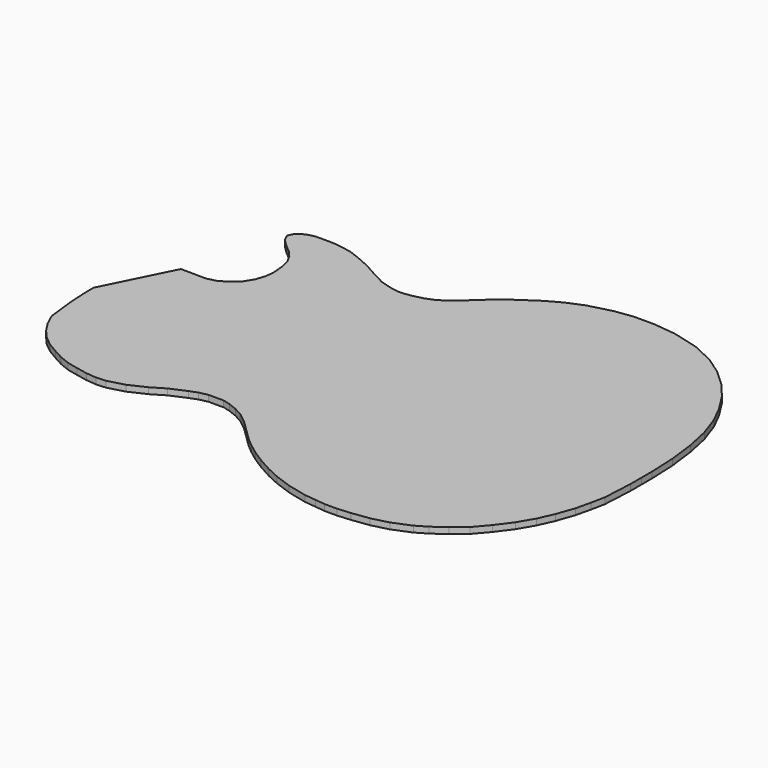
from build123d import *

# Parameters (mm, degrees)
F0_W     = 37
F0_H     = 69
F1_DEPTH = 5


with BuildPart() as f1:
    # F0 (on Top) → F1 (new body)
    with BuildSketch(Plane.XY):
        Polygon((109.757393, -47.013952), (-190.469548, -47.013952), (-187.938355, -69.176264), (-184.088363, -77.644812), (-178.970914, -85.570573), (-173.10958, -92.22553), (-166.061834, -97.942505), (-158.033386, -102.625757), (-150.505585, -106.763709), (-142.395731, -109.967075), (-134.17314, -111.816847), (-125.182951, -113.624161), (-117.335529, -114.393513), (-110.297666, -113.927758), (-97.994511, -110.570822), (-84.98137, -104.478377), (-74.645462, -98.277857), (-61.347514, -92.467954), (-54.509754, -89.918709), (-46.818863, -88.209901), (-39.777415, -88.209901), (-33.070793, -88.209901), (-25.985741, -90.074082), (-18.618021, -92.997303), (-10.935776, -97.133205), (-1.40856, -104.7078), (7.10493, -112.998784), (15.743346, -121.422512), (21.768701, -126.512042), (30.47871, -133.017234), (39.396258, -138.681565), (50.354269, -144.791737), (60.591184, -149.491585), (74.199441, -154.41068), (89.423326, -158.059629), (98.85233, -159.107134), (106.677154, -159.976425), (116.486558, -159.976425), (126.872966, -159.103989), (140.423232, -157.318581), (153.42437, -154.017258), (167.162878, -148.336862), (175.342116, -143.532352), (185.6123, -136.302521), (195.518968, -128.048335), (204.653845, -117.358152), (213.371967, -105.595887), (220.455531, -93.514166), (225.775129, -81.625274), (230.597933, -67.78821), (233.441157, -55.785481), (235.624263, -44.975688), (236.896344, -20.704121), (236.86714, -9.510057), (236.86714, 1.11357), (235.906968, 22.984027), (233.25353, 44.31771), (229.252552, 63.059144), (223.510394, 79.554792), (216.840677, 92.894226), (207.739533, 107.33053), (197.024369, 120.1263), (184.641449, 131.468644), (171.094149, 140.879356), (153.60487, 149.05483), (132.97725, 154.472187), (114.898965, 156.457659), (99.067456, 156.457659), (84.663291, 154.488749), (66.679821, 149.783781), (53.734493, 144.398522), (42.264603, 138.037948), (27.751352, 128.291809), (16.359527, 119.536983), (4.246612, 108.496011), (-5.338126, 100.151649), (-13.215689, 95.496727), (-20.495536, 92.632523), (-29.407222, 90.433524), (-36.891697, 89.410468), (-42.068154, 89.410468), (-50.267792, 90.919179), (-59.070143, 93.618111), (-68.10425, 98.191586), (-78.777898, 104.228198), (-85.258181, 107.363312), (-92.926764, 110.724328), (-100.445934, 113.46735), (-107.684615, 114.975152), (-115.831575, 115.993351), (-123.636163, 115.993351), (-129.309204, 115.993351), (-133.603284, 114.941916), (-137.040821, 113.433007), (-138.448742, 112.306855), (-139.140668, 111.03855), (-139.344401, 110.549672), (-138.28696, 108.284083), (-136.043459, 105.957887), (-131.906646, 102.131959), (-126.94568, 97.960933), (-121.69705, 91.98096), (-117.6631, 84.796643), (-115.553754, 76.732782), (-114.52125, 64.899556), (-115.629325, 56.405594), (-116.508421, 53.80871), (109.757393, 52.986048), align=None)
        Polygon((241.896685, -20.828539), (241.86714, -9.503535), (241.86714, 1.223274), (240.893394, 23.402912), (238.188565, 45.149782), (234.077219, 64.408205), (228.126581, 81.502758), (221.202205, 95.35151), (211.789387, 110.282193), (200.645468, 123.589971), (187.770458, 135.383053), (173.597124, 145.228644), (155.312446, 153.775932), (133.890159, 159.40199), (115.172707, 161.457659), (98.727311, 161.457659), (83.688435, 159.40199), (65.079178, 154.533299), (51.555006, 148.90724), (39.653731, 142.307444), (24.831248, 132.353646), (13.146367, 123.3736), (0.920512, 112.229684), (-8.275919, 104.223377), (-15.416681, 100.003837), (-22.016478, 97.407195), (-30.347364, 95.35151), (-37.231842, 94.410468), (-41.61199, 94.410468), (-49.078566, 95.784297), (-57.194419, 98.27274), (-65.74312, 102.60048), (-76.456041, 108.659303), (-83.165131, 111.905112), (-91.064569, 115.367308), (-99.0722, 118.288523), (-106.86343, 119.91142), (-115.520338, 120.993351), (-123.636163, 120.993351), (-129.912436, 120.993351), (-135.214792, 119.695033), (-139.651454, 117.747557), (-142.356729, 115.583694), (-143.655285, 113.20343), (-144.737394, 110.606795), (-143.979894, 108.659303), (-142.464952, 105.413509), (-139.543231, 102.384094), (-135.214792, 98.38094), (-130.45349, 94.377787), (-125.800382, 89.076315), (-122.337637, 82.909292), (-120.498056, 75.876723), (-119.549613, 65.006897), (-120.5235, 57.541555), (-121.780652, 53.827879), (-116.508421, 53.80871), (-115.629325, 56.405594), (-114.52125, 64.899556), (-115.553754, 76.732782), (-117.6631, 84.796643), (-121.69705, 91.98096), (-126.94568, 97.960933), (-131.906646, 102.131959), (-136.043459, 105.957887), (-138.28696, 108.284083), (-139.344401, 110.549672), (-139.140668, 111.03855), (-138.448742, 112.306855), (-137.040821, 113.433007), (-133.603284, 114.941916), (-129.309204, 115.993351), (-123.636163, 115.993351), (-115.831575, 115.993351), (-107.684615, 114.975152), (-100.445934, 113.46735), (-92.926764, 110.724328), (-85.258181, 107.363312), (-78.777898, 104.228198), (-68.10425, 98.191586), (-59.070143, 93.618111), (-50.267792, 90.919179), (-42.068154, 89.410468), (-36.891697, 89.410468), (-29.407222, 90.433524), (-20.495536, 92.632523), (-13.215689, 95.496727), (-5.338126, 100.151649), (4.246612, 108.496011), (16.359527, 119.536983), (27.751352, 128.291809), (42.264603, 138.037948), (53.734493, 144.398522), (66.679821, 149.783781), (84.663291, 154.488749), (99.067456, 156.457659), (114.898965, 156.457659), (132.97725, 154.472187), (153.60487, 149.05483), (171.094149, 140.879356), (184.641449, 131.468644), (197.024369, 120.1263), (207.739533, 107.33053), (216.840677, 92.894226), (223.510394, 79.554792), (229.252552, 63.059144), (233.25353, 44.31771), (235.906968, 22.984027), (236.86714, 1.11357), (236.86714, -9.510057), (236.896344, -20.704121), (235.624263, -44.975688), (233.441157, -55.785481), (230.597933, -67.78821), (225.775129, -81.625274), (220.455531, -93.514166), (213.371967, -105.595887), (204.653845, -117.358152), (195.518968, -128.048335), (185.6123, -136.302521), (175.342116, -143.532352), (167.162878, -148.336862), (153.42437, -154.017258), (140.423232, -157.318581), (126.872966, -159.103989), (116.486558, -159.976425), (106.677154, -159.976425), (98.85233, -159.107134), (89.423326, -158.059629), (74.199441, -154.41068), (60.591184, -149.491585), (50.354269, -144.791737), (39.396258, -138.681565), (30.47871, -133.017234), (21.768701, -126.512042), (15.743346, -121.422512), (7.10493, -112.998784), (-1.40856, -104.7078), (-10.935776, -97.133205), (-18.618021, -92.997303), (-25.985741, -90.074082), (-33.070793, -88.209901), (-39.777415, -88.209901), (-46.818863, -88.209901), (-54.509754, -89.918709), (-61.347514, -92.467954), (-74.645462, -98.277857), (-84.98137, -104.478377), (-97.994511, -110.570822), (-110.297666, -113.927758), (-117.335529, -114.393513), (-125.182951, -113.624161), (-134.17314, -111.816847), (-142.395731, -109.967075), (-150.505585, -106.763709), (-158.033386, -102.625757), (-166.061834, -97.942505), (-173.10958, -92.22553), (-178.970914, -85.570573), (-184.088363, -77.644812), (-187.938355, -69.176264), (-190.469548, -47.013952), (-195.502055, -47.013952), (-192.816544, -70.52742), (-188.488075, -80.048439), (-182.969332, -88.595711), (-176.584836, -95.844667), (-168.913197, -102.06773), (-160.497736, -106.976739), (-152.636803, -111.29781), (-143.871701, -114.759998), (-135.214792, -116.707474), (-125.921469, -118.575728), (-117.414903, -119.409702), (-109.466198, -118.883669), (-96.263724, -115.281352), (-82.629097, -108.897942), (-72.349024, -102.730918), (-59.471869, -97.10486), (-53.087402, -94.724611), (-46.270089, -93.2099), (-39.777415, -93.2099), (-33.717573, -93.2099), (-27.549523, -94.832804), (-20.732225, -97.53764), (-13.698481, -101.324407), (-4.716933, -108.46517), (3.615337, -116.57967), (12.380454, -125.12695), (18.656712, -130.428414), (27.638252, -137.136404), (36.836223, -142.978855), (48.090199, -149.254057), (58.694911, -154.122764), (72.762384, -159.207856), (88.561238, -162.994616), (98.300256, -164.076562), (106.400271, -164.976425), (116.696184, -164.976425), (127.409104, -164.076562), (141.368369, -162.237264), (155.002991, -158.775083), (169.3951, -152.824446), (178.052005, -147.739353), (188.656718, -140.274027), (199.045011, -131.618553), (208.567606, -120.474638), (217.549146, -108.356976), (224.907514, -95.80655), (230.426294, -83.472502), (235.404011, -69.190978), (238.325717, -56.856934), (240.598152, -45.604822), align=None)
        Polygon((-116.508421, 53.80871), (-121.780652, 53.827879), (-122.904166, 50.508979), (-127.016189, 43.6928), (-132.751377, 38.499518), (-140.001537, 33.739009), (-147.929535, 31.704532), (-134.216449, 31.556042), (-129.682809, 34.532863), (-123.114868, 40.480213), (-118.342329, 48.391277), (-117.044656, 52.224651), align=None)
        Polygon((-196.325026, -31.183951), (-195.502055, -47.013952), (-190.469548, -47.013952), (109.757393, -47.013952), (109.757393, 52.986048), (-116.508421, 53.80871), (-117.044656, 52.224651), (-118.342329, 48.391277), (-123.114868, 40.480213), (-129.682809, 34.532863), (-134.216449, 31.556042), (-113.145601, 31.327879), (-113.742607, -23.805663), (-196.325026, -23.068249), align=None)
        with Locations((-86.742607, 3.827879)):
            Rectangle(F0_W, F0_H, mode=Mode.SUBTRACT)
        with Locations((16.257393, 3.827879)):
            Rectangle(F0_W, F0_H, mode=Mode.SUBTRACT)
        Polygon((-168.913197, 31.931751), (-196.325026, -23.068249), (-113.742607, -23.805663), (-113.145601, 31.327879), (-134.216449, 31.556042), (-147.929535, 31.704532), align=None)
        with Locations((-86.742607, 3.827879)):
            Rectangle(F0_W, F0_H)
        with Locations((16.257393, 3.827879)):
            Rectangle(F0_W, F0_H)
    extrude(amount=F1_DEPTH)


solid = f1.part
